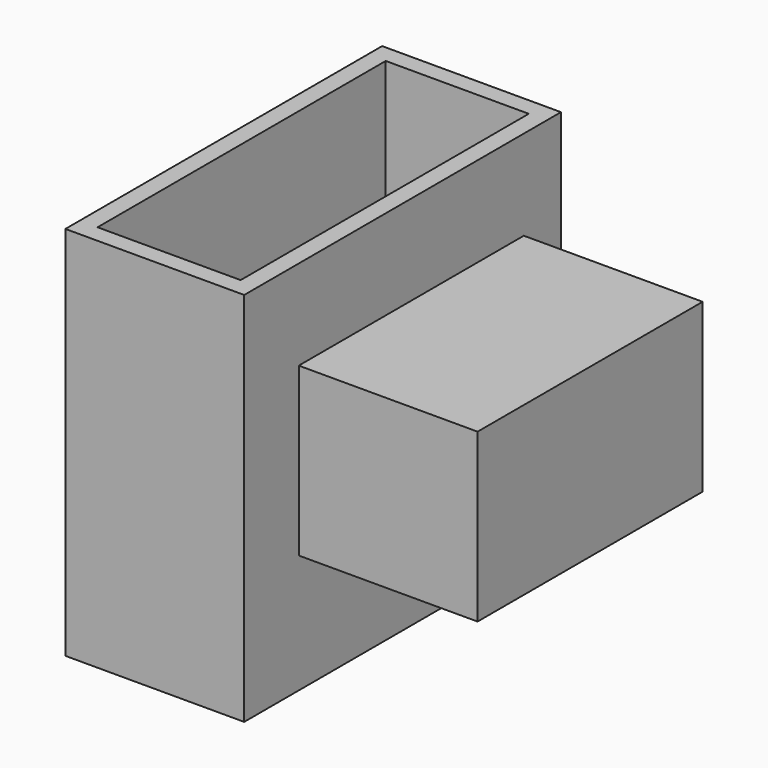
from build123d import *

# Parameters (mm, degrees)
F0_W     = 35.9010435641
F0_H     = 59.8467253149
F1_DEPTH = 25.4
F2_W     = 56.2424324453
F2_H     = 53.3904395998
F3_DEPTH = 25.4
F4_W     = 39.9578805082
F4_H     = 23.749506101
F5_DEPTH = 25.4
F6_T     = -2.54


with BuildPart() as f1:
    # F0 (on Top) → F1 (new body)
    with BuildSketch(Plane.XY):
        with Locations((-17.950521782, 29.9233626574)):
            Rectangle(F0_W, F0_H)
    extrude(amount=F1_DEPTH)


with BuildPart() as f3:
    # F2 (on Right) → F3 (new body)
    with BuildSketch(Plane.YZ):
        with Locations((-28.1212162226, 26.6952197999)):
            Rectangle(F2_W, F2_H)
    extrude(amount=F3_DEPTH)

    # F4 (on face) → F5 (join)
    with BuildSketch(Plane.YZ.offset(25.4)):
        with Locations((-26.5757592861, 28.7435064092)):
            Rectangle(F4_W, F4_H)
    extrude(amount=F5_DEPTH)

    # F6
    f6_openings = [f3.faces().sort_by_distance(p)[0] for p in [
        (12.7, -28.121216, 53.39044),
    ]]
    offset(amount=F6_T, openings=f6_openings, kind=Kind.INTERSECTION)


solid = f3.part
